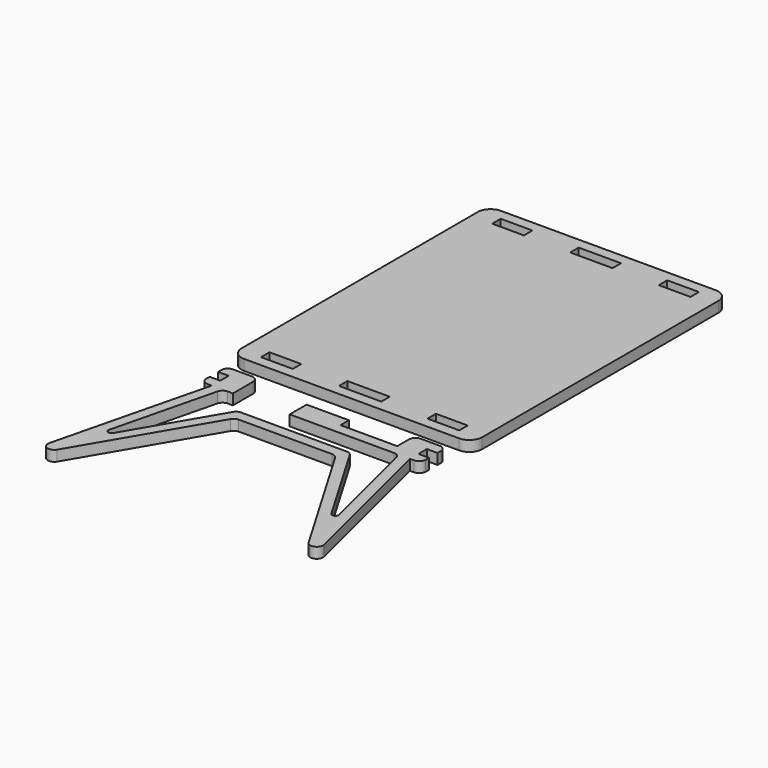
from build123d import *

# Parameters (mm, degrees)
F2_DEPTH = 3.3
F1_W     = 9.9
F1_H     = 3.3
F1_W_2   = 13.2


with BuildPart() as f2:
    # F1 (on Top) → F2 (new body)
    with BuildSketch(Plane.XY):
        with BuildLine():
            Line((5.3, -15.9), (6.6, -15.9))
            Line((6.6, -15.9), (-5.3468506697, -64.2546372373))
            ThreePointArc((-5.3468506697, -64.2546372373), (-4.1594884882, -66.5866700606), (-1.6808025264, -65.7474311544))
            Line((-1.6808025264, -65.7474311544), (21.2080626707, -26.7869162912))
            ThreePointArc((21.2080626707, -26.7869162912), (21.9390568106, -26.0641763601), (22.9324934171, -25.8))
            Line((22.9324934171, -25.8), (37.5, -25.8))
            Line((37.5, -25.8), (52.0675065829, -25.8))
            ThreePointArc((52.0675065829, -25.8), (53.0609431894, -26.0641763601), (53.7919373293, -26.7869162912))
            Line((53.7919373293, -26.7869162912), (76.6808025264, -65.7474311544))
            ThreePointArc((76.6808025264, -65.7474311544), (79.1594884882, -66.5866700606), (80.3468506697, -64.2546372373))
            Line((80.3468506697, -64.2546372373), (68.4, -15.9))
            Line((68.4, -15.9), (69.7, -15.9))
            ThreePointArc((69.7, -15.9), (71.1142135624, -15.3142135624), (71.7, -13.9))
            Line((71.7, -13.9), (71.7, -12.6))
            Line((71.7, -12.6), (68.4, -12.6))
            Line((68.4, -12.6), (68.4, -9.3))
            Line((68.4, -9.3), (71.7, -9.3))
            Line((71.7, -9.3), (71.7, -8))
            ThreePointArc((71.7, -8), (71.1142135624, -6.5857864376), (69.7, -6))
            Line((69.7, -6), (63.8, -6))
            ThreePointArc((63.8, -6), (62.3857864376, -6.5857864376), (61.8, -8))
            Line((61.8, -8), (61.8, -12.6))
            Line((61.8, -12.6), (44.1, -12.6))
            Line((44.1, -12.6), (44.1, -9.3))
            Line((44.1, -9.3), (37.5, -9.3))
            Line((37.5, -9.3), (30.9, -9.3))
            Line((30.9, -9.3), (30.9, -12.6))
            Line((30.9, -12.6), (30.9, -15.9))
            Line((30.9, -15.9), (37.5, -15.9))
            Line((37.5, -15.9), (63.4347686425, -15.9))
            ThreePointArc((63.4347686425, -15.9), (64.6677689636, -16.3252904369), (65.3763860395, -17.4202897918))
            Line((65.3763860395, -17.4202897918), (73.3513984887, -49.6989919039))
            ThreePointArc((73.3513984887, -49.6989919039), (72.7577173979, -50.8650083155), (71.518374417, -50.4453888624))
            Line((71.518374417, -50.4453888624), (55.6805743579, -23.4869162912))
            ThreePointArc((55.6805743579, -23.4869162912), (54.9495802181, -22.7641763601), (53.9561436116, -22.5))
            Line((53.9561436116, -22.5), (37.5, -22.5))
            Line((37.5, -22.5), (21.0438563884, -22.5))
            ThreePointArc((21.0438563884, -22.5), (20.0504197819, -22.7641763601), (19.3194256421, -23.4869162912))
            Line((19.3194256421, -23.4869162912), (3.481625583, -50.4453888624))
            ThreePointArc((3.481625583, -50.4453888624), (2.2422826021, -50.8650083155), (1.6486015113, -49.6989919039))
            Line((1.6486015113, -49.6989919039), (9.6236139605, -17.4202897918))
            ThreePointArc((9.6236139605, -17.4202897918), (10.3322310364, -16.3252904369), (11.5652313575, -15.9))
            Line((11.5652313575, -15.9), (13.2, -15.9))
            Line((13.2, -15.9), (13.2, -12.6))
            Line((13.2, -12.6), (13.2, -8))
            ThreePointArc((13.2, -8), (12.6142135624, -6.5857864376), (11.2, -6))
            Line((11.2, -6), (5.3, -6))
            ThreePointArc((5.3, -6), (3.8857864376, -6.5857864376), (3.3, -8))
            Line((3.3, -8), (3.3, -9.3))
            Line((3.3, -9.3), (6.6, -9.3))
            Line((6.6, -9.3), (6.6, -12.6))
            Line((6.6, -12.6), (3.3, -12.6))
            Line((3.3, -12.6), (3.3, -13.9))
            ThreePointArc((3.3, -13.9), (3.8857864376, -15.3142135624), (5.3, -15.9))
        make_face()
    extrude(amount=F2_DEPTH)


with BuildPart() as f2b:
    # F1 (on Top) → F2, piece 2 (new body)
    with BuildSketch(Plane.XY):
        with BuildLine():
            Line((0, 96), (0, 4))
            ThreePointArc((0, 4), (1.1715728753, 1.1715728753), (4, 0))
            Line((4, 0), (71, 0))
            ThreePointArc((71, 0), (73.8284271247, 1.1715728753), (75, 4))
            Line((75, 4), (75, 96))
            ThreePointArc((75, 96), (73.8284271247, 98.8284271247), (71, 100))
            Line((71, 100), (4, 100))
            ThreePointArc((4, 100), (1.1715728753, 98.8284271247), (0, 96))
        make_face()
        with Locations((11.55, 4.95)):
            Rectangle(F1_W, F1_H, mode=Mode.SUBTRACT)
        with Locations((37.5, 4.95)):
            Rectangle(F1_W_2, F1_H, mode=Mode.SUBTRACT)
        with Locations((63.45, 4.95)):
            Rectangle(F1_W, F1_H, mode=Mode.SUBTRACT)
        with Locations((11.55, 95.05)):
            Rectangle(F1_W, F1_H, mode=Mode.SUBTRACT)
        with Locations((37.5, 95.05)):
            Rectangle(F1_W_2, F1_H, mode=Mode.SUBTRACT)
        with Locations((63.45, 95.05)):
            Rectangle(F1_W, F1_H, mode=Mode.SUBTRACT)
    extrude(amount=F2_DEPTH)


solid = Compound([f2.part, f2b.part])
